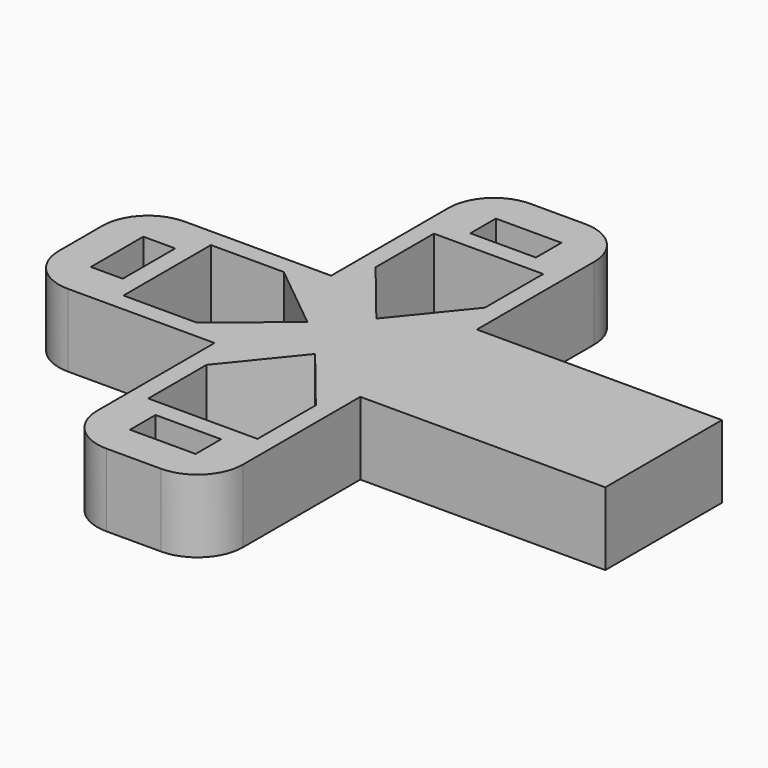
from build123d import *

# Parameters (mm, degrees)
F0_W     = 7.2
F0_H     = 3.5
F0_W_2   = 3.5
F0_H_2   = 7.2
F1_DEPTH = 8


with BuildPart() as f1:
    # F0 (on Top) → F1 (new body)
    with BuildSketch(Plane.XY):
        with BuildLine():
            ThreePointArc((-5, 5), (-3.535534, 1.464466), (0, 0))
            Line((0, 0), (16.1, 0))
            Line((16.1, 0), (16.1, -16.1))
            ThreePointArc((16.1, -16.1), (17.564466, -19.635534), (21.1, -21.1))
            Line((21.1, -21.1), (27.1, -21.1))
            ThreePointArc((27.1, -21.1), (30.635534, -19.635534), (32.1, -16.1))
            Line((32.1, -16.1), (32.1, 0))
            Line((32.1, 0), (59, 0))
            Line((59, 0), (59, 16))
            Line((59, 16), (32.1, 16))
            Line((32.1, 16), (32.1, 32.1))
            ThreePointArc((32.1, 32.1), (30.635534, 35.635534), (27.1, 37.1))
            Line((27.1, 37.1), (21.1, 37.1))
            ThreePointArc((21.1, 37.1), (17.564466, 35.635534), (16.1, 32.1))
            Line((16.1, 32.1), (16.1, 16))
            Line((16.1, 16), (0, 16))
            ThreePointArc((0, 16), (-3.535534, 14.535534), (-5, 11))
            Line((-5, 11), (-5, 5))
        make_face()
        with Locations((24.1, -15.35)):
            Rectangle(F0_W, F0_H, mode=Mode.SUBTRACT)
        with Locations((0.75, 8)):
            Rectangle(F0_W_2, F0_H_2, mode=Mode.SUBTRACT)
        Polygon((30.1, -3.6), (30.1, -11.6), (18.1, -11.6), (18.1, -3.6), (24.1, 3.8), align=None, mode=Mode.SUBTRACT)
        Polygon((12.5, 2), (4.5, 2), (4.5, 14), (12.5, 14), (19.9, 8), align=None, mode=Mode.SUBTRACT)
        Polygon((18.1, 19.6), (18.1, 27.6), (30.1, 27.6), (30.1, 19.6), (24.1, 12.2), align=None, mode=Mode.SUBTRACT)
        with Locations((24.1, 31.35)):
            Rectangle(F0_W, F0_H, mode=Mode.SUBTRACT)
    extrude(amount=F1_DEPTH)


solid = f1.part
